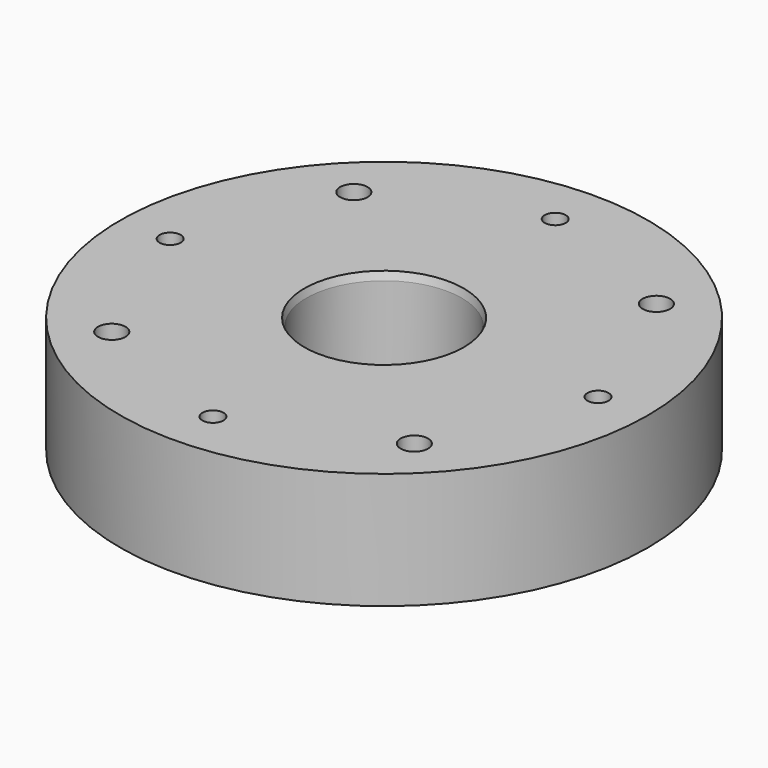
from build123d import *

# Parameters (mm, degrees)
F0_R     = 43.18
F0_R_2   = 12.7
F1_DEPTH = 19.05
F2_SIZE2 = 0.3402954744
F2_SIZE  = 1.27
F4_D     = 3.4544
F4_DEPTH = 11.43
F4_TIP   = 1.0378064612
F6_D     = 3.4544
F6_DEPTH = 15.24
F6_TIP   = 1.0378064612
F8_D     = 4.4958


with BuildPart() as f1:
    # F0 (on Top) → F1 (new body)
    with BuildSketch(Plane.XY):
        Circle(F0_R)
        Circle(F0_R_2, mode=Mode.SUBTRACT)
    extrude(amount=F1_DEPTH)

    # F2
    f2_edges = [f1.edges().sort_by_distance(p)[0] for p in [
        (-12.7, 0, 19.05),
        (-12.7, 0, 0),
    ]]
    f2_side = f1.faces().sort_by_distance((-12.7, 0, 9.525))[0]
    chamfer(f2_edges, length=F2_SIZE, length2=F2_SIZE2, reference=f2_side)

    # F4
    with Locations(Plane(origin=(0, 0, 0), x_dir=(1, 0, 0), z_dir=(0, 0, -1))):
        with Locations((0, -17.78), (-17.78, 0), (0, 17.78), (17.78, 0)):
            Hole(F4_D / 2, depth=F4_DEPTH)
            with Locations((0, 0, -(F4_DEPTH + F4_TIP / 2))):  # 118° drill point
                Cone(0, F4_D / 2, F4_TIP, mode=Mode.SUBTRACT)

    # F6
    with Locations(Plane.XY.offset(19.05)):
        with Locations((35, 0), (0, -35), (-35, 0), (0, 35)):
            Hole(F6_D / 2, depth=F6_DEPTH)
            with Locations((0, 0, -(F6_DEPTH + F6_TIP / 2))):  # 118° drill point
                Cone(0, F6_D / 2, F6_TIP, mode=Mode.SUBTRACT)

    # F8 (through all)
    with Locations(Plane.XY.offset(19.05)):
        with Locations((24.7487373415, -24.7487373415), (-24.7487373415, -24.7487373415), (-24.7487373415, 24.7487373415), (24.7487373415, 24.7487373415)):
            Hole(F8_D / 2)


solid = f1.part
